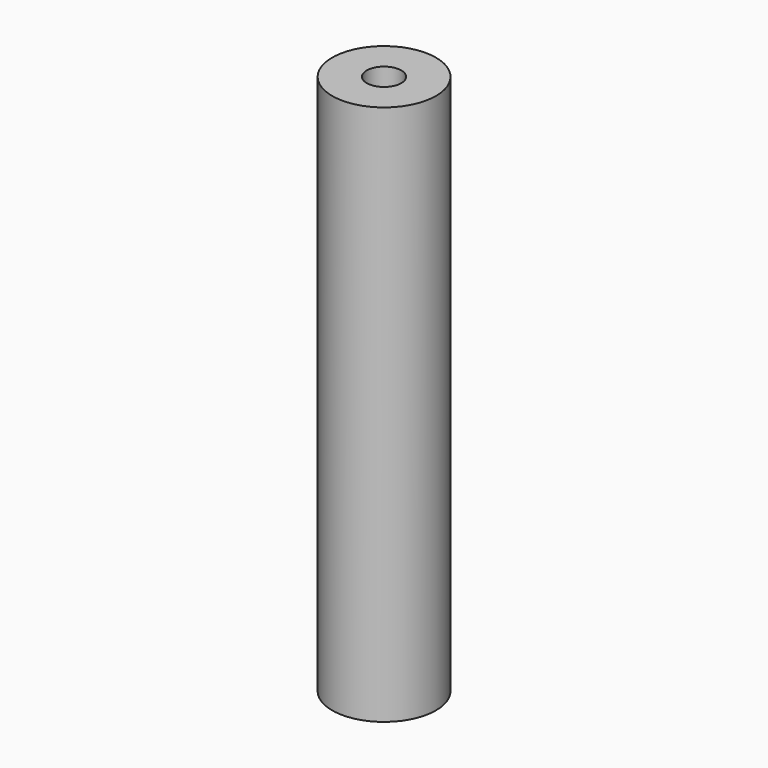
from build123d import *

# Parameters (mm, degrees)
F0_R     = 9.750485
F0_R_2   = 3.240592
F1_DEPTH = 50.8


with BuildPart() as f1:
    # F0 (on Top) → F1 (new body, symmetric)
    with BuildSketch(Plane.XY):
        with Locations((-35.475194, 44.18838)):
            Circle(F0_R)
        with Locations((-35.475194, 44.18838)):
            Circle(F0_R_2, mode=Mode.SUBTRACT)
    extrude(amount=F1_DEPTH, both=True)


solid = f1.part
